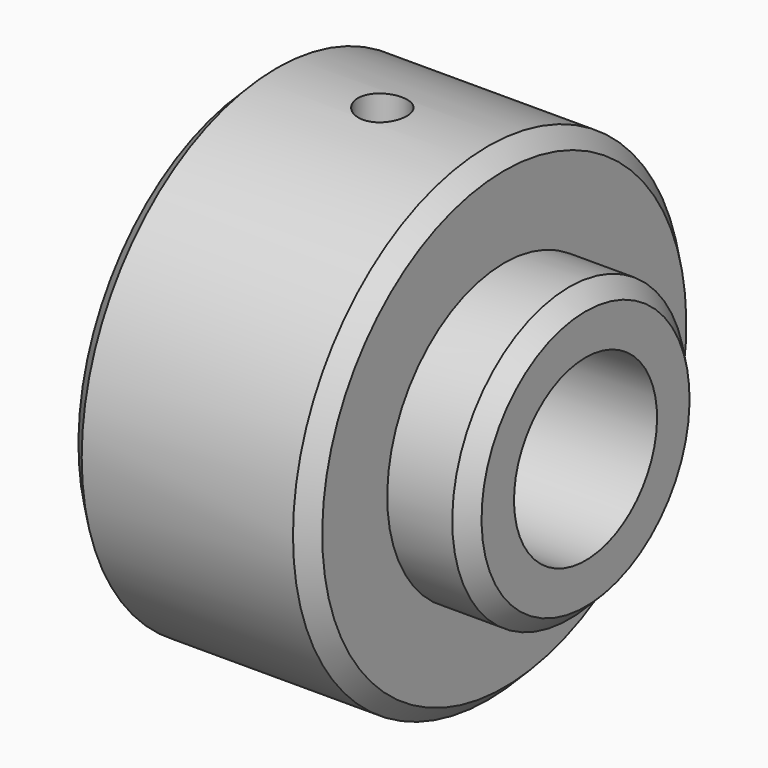
from build123d import *

# Parameters (mm, degrees)
F2_SIZE  = 2
F5_D     = 6
F5_DEPTH = 12
F5_START = 0.150377
F5_TIP   = 1.8025818571


with BuildPart() as f1:
    # F0 (on Front) → F1 (revolve)
    with BuildSketch(Plane.XZ):
        Polygon((0, 30), (-30, 30), (-30, 11), (10, 11), (10, 18), (0, 18), align=None)
    revolve(axis=Axis((3.7253e-06, 0, 0), (1, 0, 0)))

    # F2
    f2_edges = [f1.edges().sort_by_distance(p)[0] for p in [
        (0, 0, -30),
        (-30, 0, -30),
        (-15, 0, 30),
        (10, 0, -18),
    ]]
    chamfer(f2_edges, length=F2_SIZE)

    # F5
    # its depths count from where the whole tool has entered the part; down to there all is cleared
    with Locations(Plane.XY.offset(30).offset(-F5_START)):
        with Locations((-15, 0)):
            Hole(F5_D / 2, depth=F5_DEPTH)
            with Locations((0, 0, -(F5_DEPTH + F5_TIP / 2))):  # 118° drill point
                Cone(0, F5_D / 2, F5_TIP, mode=Mode.SUBTRACT)


solid = f1.part
